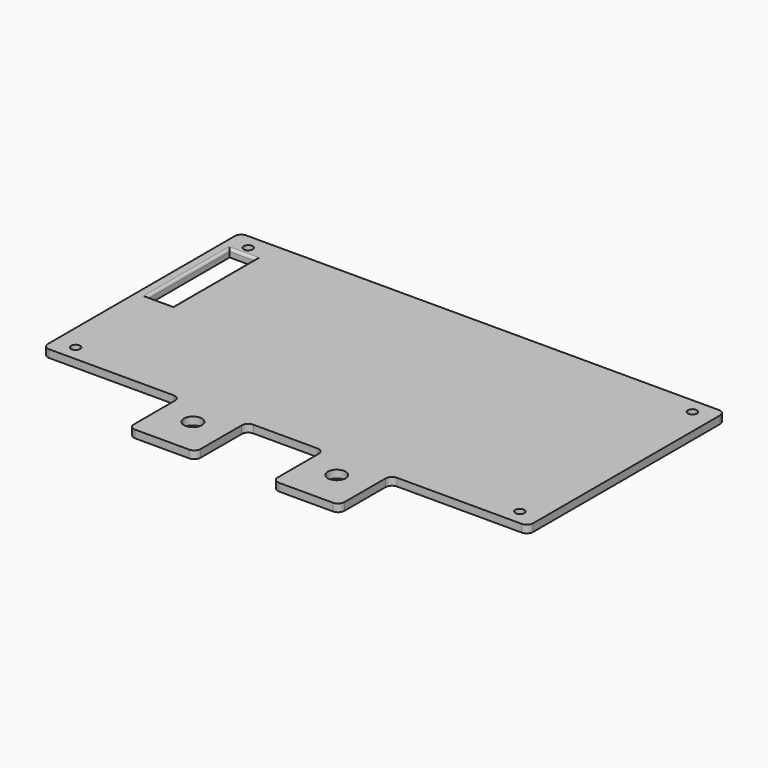
from build123d import *

# Parameters (mm, degrees)
SKETCH020_R   = 3.5
SKETCH020_R_2 = 1.75
SKETCH020_W   = 10
SKETCH020_H   = 40
PAD012_DEPTH  = 3
FILLET008_R   = 2.5
FILLET009_R   = 1


with BuildPart() as part:
    # Sketch020 → Pad012 (new body)
    with BuildSketch(Plane.XY):
        Polygon((-94.5, 48), (-94.5, -48), (-41, -48), (-41, -73), (-15, -73), (-15, -48), (15, -48), (15, -73), (41, -73), (41, -48), (94.5, -48), (94.5, 48), align=None)
        with Locations((-28, -58)):
            Circle(SKETCH020_R, mode=Mode.SUBTRACT)
        with Locations((28, -58)):
            Circle(SKETCH020_R, mode=Mode.SUBTRACT)
        with Locations((-86.5, -42)):
            Circle(SKETCH020_R_2, mode=Mode.SUBTRACT)
        with Locations((86.5, -42)):
            Circle(SKETCH020_R_2, mode=Mode.SUBTRACT)
        with Locations((86.5, 42)):
            Circle(SKETCH020_R_2, mode=Mode.SUBTRACT)
        with Locations((-86.5, 42)):
            Circle(SKETCH020_R_2, mode=Mode.SUBTRACT)
        with Locations((-85.5, 18)):
            Rectangle(SKETCH020_W, SKETCH020_H, mode=Mode.SUBTRACT)
    extrude(amount=PAD012_DEPTH)

    # Fillet008
    fillet008_edges = [part.edges().sort_by_distance(p)[0] for p in [
        (94.5, -48, 1.5),
        (41, -48, 1.5),
        (41, -73, 1.5),
        (94.5, 48, 1.5),
        (15, -48, 1.5),
        (15, -73, 1.5),
        (-15, -48, 1.5),
        (-15, -73, 1.5),
        (-41, -73, 1.5),
        (-41, -48, 1.5),
        (-94.5, -48, 1.5),
        (-94.5, 48, 1.5),
    ]]
    fillet(fillet008_edges, radius=FILLET008_R)

    # Fillet009
    fillet009_edges = [part.edges().sort_by_distance(p)[0] for p in [
        (-90.5, 18, 3),
        (-85.5, 38, 3),
        (-80.5, 18, 3),
        (-85.5, -2, 3),
    ]]
    fillet(fillet009_edges, radius=FILLET009_R)


with BuildPart() as part_1:
    # Body008 placement: moved
    add(part.part.moved(Location((0, 87, 2.5))))


solid = part_1.part
